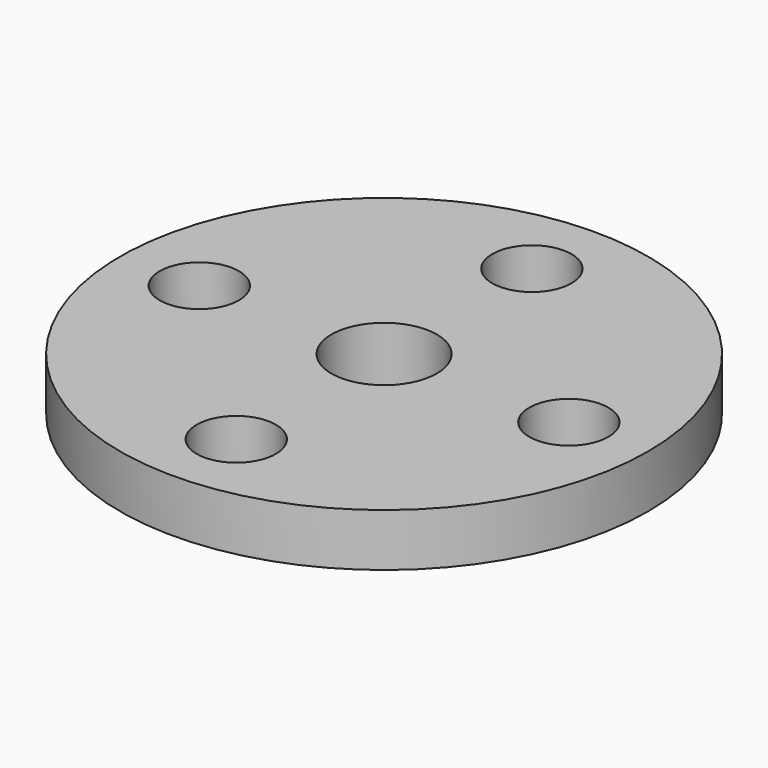
from build123d import *

# Parameters (mm, degrees)
SKETCH011_R        = 10
PAD008_DEPTH       = 2
SKETCH012_R        = 4.5
PAD009_DEPTH       = 2.5
SKETCH013_R        = 2
POCKET003_DEPTH    = 4.501
CHAMFER004_SIZE    = 0.5
FILLET011_R        = 0.5
SKETCH014_R        = 1.5
POCKET004_DEPTH    = 59.281014
POLARPATTERN_COUNT = 4


with BuildPart() as part:
    # Sketch011 → Pad008 (new body)
    with BuildSketch(Plane.XY):
        Circle(SKETCH011_R)
    extrude(amount=PAD008_DEPTH)

    # Sketch012 (on Face2 of Pad008) → Pad009 (join)
    with BuildSketch(Plane(origin=(0, 0, 0), x_dir=(1, 0, 0), z_dir=(0, 0, -1))):
        Circle(SKETCH012_R)
    extrude(amount=PAD009_DEPTH)

    # Sketch013 (on Face5 of Pad009) → Pocket003 (cut, through all)
    with BuildSketch(Plane(origin=(0, 0, -2.5), x_dir=(1, 0, 0), z_dir=(0, 0, -1))):
        Circle(SKETCH013_R)
    extrude(amount=-POCKET003_DEPTH, mode=Mode.SUBTRACT)

    # Chamfer004
    chamfer004_edges = [part.edges().sort_by_distance(p)[0] for p in [
        (-2, 0, -2.5),
    ]]
    chamfer(chamfer004_edges, length=CHAMFER004_SIZE)

    # Fillet011
    fillet011_edges = [part.edges().sort_by_distance(p)[0] for p in [
        (-4.5, 0, -2.5),
    ]]
    fillet(fillet011_edges, radius=FILLET011_R)

    # Sketch014 (on Face6 of Fillet011) → Pocket004 (cut, through all)
    with BuildSketch(Plane(origin=(0, 0, 0), x_dir=(1, 0, 0), z_dir=(0, 0, -1))):
        with Locations((7, 0)):
            Circle(SKETCH014_R)
    pocket004 = extrude(amount=-POCKET004_DEPTH, mode=Mode.SUBTRACT)

    # PolarPattern: Pocket004 ×4 about axis
    polarpattern_axis = Axis((0, 0, 0), (0, 0, -1))
    for i in range(1, POLARPATTERN_COUNT):
        add(pocket004.rotate(polarpattern_axis, i * 360 / POLARPATTERN_COUNT), mode=Mode.SUBTRACT)


solid = part.part
